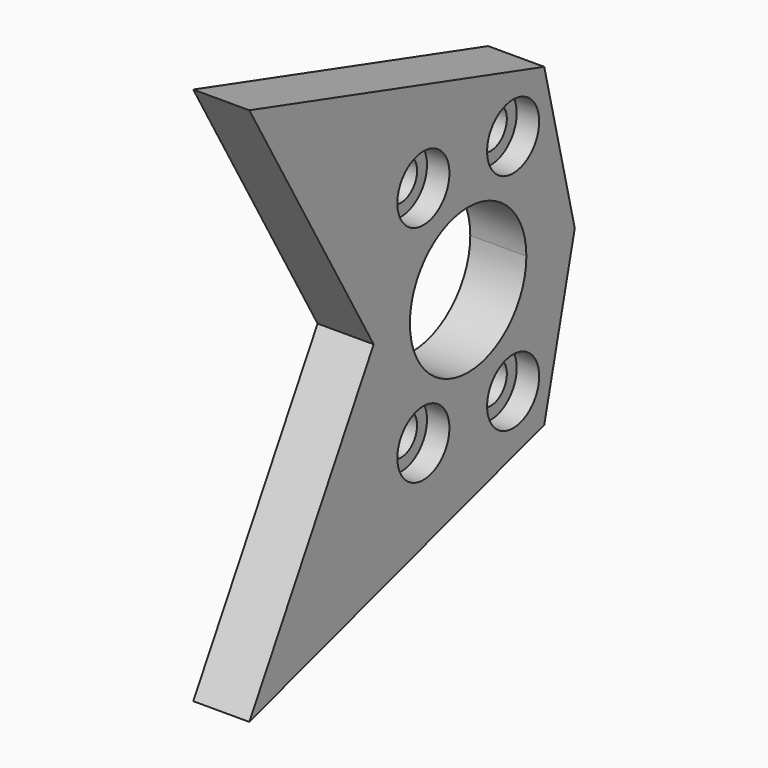
from build123d import *

# Parameters (mm, degrees)
SKETCH116_R     = 2.286
PAD042_DEPTH    = 6.35
SKETCH117_R     = 3.683
POCKET041_DEPTH = 2.54


with BuildPart() as part:
    # Sketch116 → Pad042 (new body)
    with BuildSketch(Plane.YZ):
        with BuildLine():
            Line((-86.423367, 0), (-104.021003, 30.48))
            Line((-104.021003, 30.48), (-62.282204, 17.844963))
            Line((-62.282204, 17.844963), (-57.965562, 0))
            Line((-64.816504, 0), (-57.965562, 0))
            ThreePointArc((-64.816504, 0), (-73.056938, 8.240434), (-81.297372, 0))
            Line((-86.423367, 0), (-81.297372, 0))
        make_face()
        with Locations((-79.389436, 12.7)):
            Circle(SKETCH116_R, mode=Mode.SUBTRACT)
        with Locations((-66.689436, 12.7)):
            Circle(SKETCH116_R, mode=Mode.SUBTRACT)
    pad042 = extrude(amount=PAD042_DEPTH)

    # Sketch117 → Pocket041 (cut)
    with BuildSketch(Plane.YZ.offset(6.35)):
        with Locations((-79.389436, 12.7)):
            Circle(SKETCH117_R)
        with Locations((-66.689436, 12.7)):
            Circle(SKETCH117_R)
    pocket041 = extrude(amount=-POCKET041_DEPTH, mode=Mode.SUBTRACT)

    # Mirrored003: Pad042, Pocket041 across XY
    add(pad042.mirror(Plane.XY))
    add(pocket041.mirror(Plane.XY), mode=Mode.SUBTRACT)


with BuildPart() as part_1:
    # Body033 placement: moved
    add(part.part.moved(Location((11.049, 0, 0))))


solid = part_1.part
